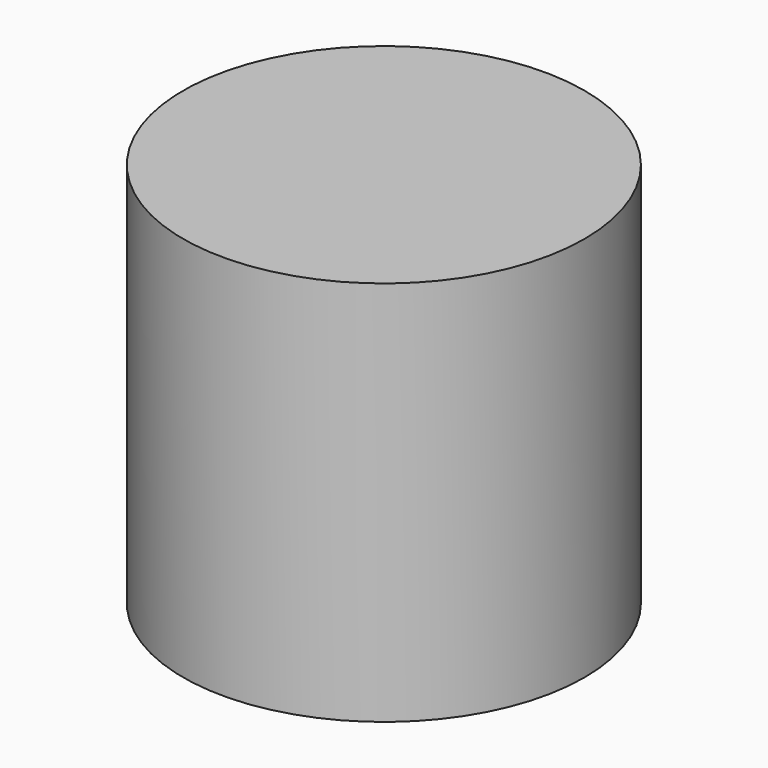
from build123d import *

# Parameters (mm, degrees)
F0_R     = 26
F1_DEPTH = 50
F2_R     = 37.5
F2_R_2   = 26
F3_DEPTH = 25


with BuildPart() as f1:
    # F0 (on Top) → F1 (new body)
    with BuildSketch(Plane.XY):
        Circle(F0_R)
    extrude(amount=F1_DEPTH)

    # F2 (on face) → F3 (cut)
    with BuildSketch(Plane.XY.offset(50)):
        Circle(F2_R)
        Circle(F2_R_2, mode=Mode.SUBTRACT)
    extrude(amount=F3_DEPTH, mode=Mode.SUBTRACT)


solid = f1.part
